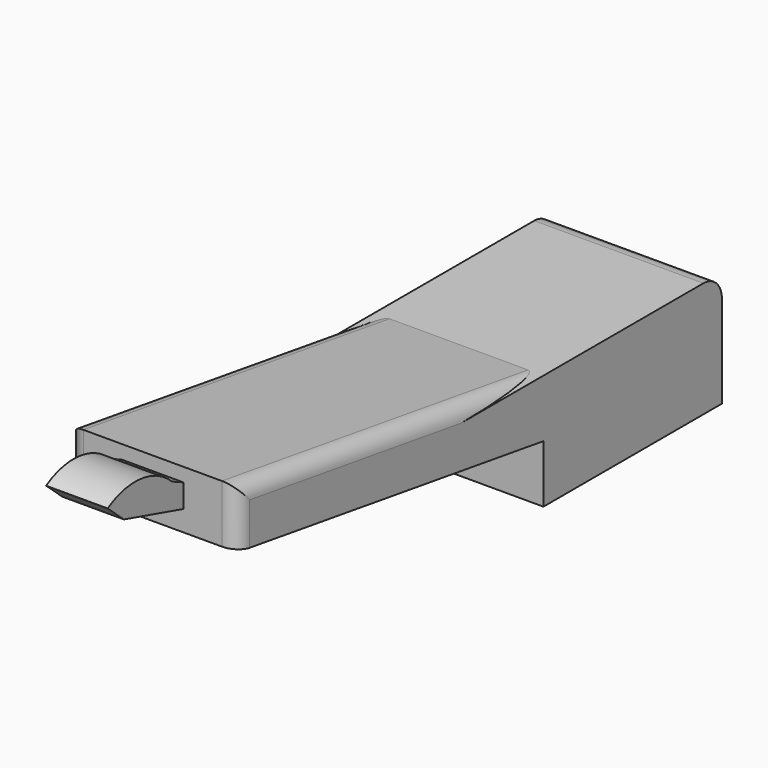
from build123d import *

# Parameters (mm, degrees)
F0_W     = 558.8
F0_H     = 736.6
F1_DEPTH = 381
F3_DEPTH = 279.4
F5_DEPTH = 101.6
F6_R     = 50.8
F7_R     = 76.2


with BuildPart() as f1:
    # F0 (on Top) → F1 (new body)
    with BuildSketch(Plane.XY):
        Rectangle(F0_W, F0_H)
    extrude(amount=F1_DEPTH)

    # F2 (on Right) → F3 (join, symmetric)
    with BuildSketch(Plane.YZ):
        Polygon((-1631.65164, 381), (-368.3, 190.5), (-368.3, 381), (-1631.65164, 571.754465), align=None)
    extrude(amount=F3_DEPTH, both=True)

    # F4 (on Right) → F5 (join, symmetric)
    with BuildSketch(Plane.YZ):
        with BuildLine():
            Line((-1877.153158, 518.437564), (-1631.65164, 449.142784))
            Line((-1631.65164, 449.142784), (-1631.65164, 526.356995))
            Line((-1631.65164, 526.356995), (-1679.167986, 548.13534))
            ThreePointArc((-1679.167986, 548.13534), (-1806.758775, 608.180538), (-1944.468141, 577.833116))
            Line((-1944.468141, 577.833116), (-1877.153158, 518.437564))
        make_face()
    extrude(amount=F5_DEPTH, both=True)

    # F6
    f6_edges = [f1.edges().sort_by_distance(p)[0] for p in [
        (279.4, -999.97582, 476.377233),
        (-279.4, -999.97582, 476.377233),
        (-279.4, -1631.65164, 476.377233),
        (279.4, -1631.65164, 476.377233),
    ]]
    fillet(f6_edges, radius=F6_R)

    # F7
    f7_edges = [f1.edges().sort_by_distance(p)[0] for p in [
        (0, 368.3, 381),
    ]]
    fillet(f7_edges, radius=F7_R)


solid = f1.part
